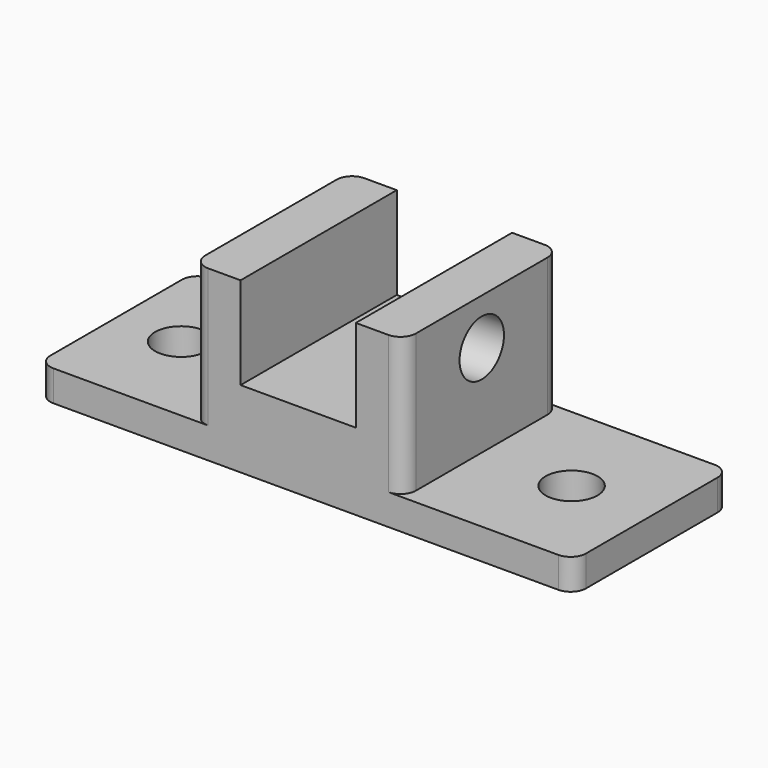
from build123d import *

# Parameters (mm, degrees)
PAD_DEPTH       = 18
SKETCH001_R     = 3.3782
PAD001_DEPTH    = 4
SKETCH002_W     = 15
SKETCH002_H     = 25.4
POCKET_DEPTH    = 12
SKETCH003_R     = 3.61315
POCKET001_DEPTH = 6.215


with BuildPart() as part:
    # Sketch → Pad (new body)
    with BuildSketch(Plane.XY):
        with BuildLine():
            Line((-13.715, 10.7), (-13.715, -10.7))
            ThreePointArc((-13.715, -10.7), (-13.129214, -12.114214), (-11.715, -12.7))
            Line((-11.715, -12.7), (11.715, -12.7))
            ThreePointArc((11.715, -12.7), (13.129214, -12.114214), (13.715, -10.7))
            Line((13.715, -10.7), (13.715, 10.7))
            ThreePointArc((13.715, 10.7), (13.129214, 12.114214), (11.715, 12.7))
            Line((11.715, 12.7), (-11.715, 12.7))
            ThreePointArc((-11.715, 12.7), (-13.129214, 12.114214), (-13.715, 10.7))
        make_face()
    extrude(amount=PAD_DEPTH)

    # Sketch001 → Pad001 (join)
    with BuildSketch(Plane.XY):
        with BuildLine():
            Line((-33.8375, 10.7), (-33.8375, -10.7))
            ThreePointArc((-33.8375, -10.7), (-33.251714, -12.114214), (-31.8375, -12.7))
            Line((-31.8375, -12.7), (33.8375, -12.7))
            ThreePointArc((33.8375, -12.7), (35.251714, -12.114214), (35.8375, -10.7))
            Line((35.8375, -10.7), (35.8375, 10.7))
            ThreePointArc((35.8375, 10.7), (35.251714, 12.114214), (33.8375, 12.7))
            Line((33.8375, 12.7), (-31.8375, 12.7))
            ThreePointArc((-31.8375, 12.7), (-33.251714, 12.114214), (-33.8375, 10.7))
        make_face()
        with Locations((-25.4, 0)):
            Circle(SKETCH001_R, mode=Mode.SUBTRACT)
        with Locations((25.4, 0)):
            Circle(SKETCH001_R, mode=Mode.SUBTRACT)
    extrude(amount=-PAD001_DEPTH)

    # Sketch002 (on DatumPlane) → Pocket (cut)
    with BuildSketch(Plane.XY.offset(18)):
        Rectangle(SKETCH002_W, SKETCH002_H)
    extrude(amount=-POCKET_DEPTH, mode=Mode.SUBTRACT)

    # Sketch003 (on DatumPlane) → Pocket001 (cut)
    with BuildSketch(Plane.YZ.offset(13.715)):
        with Locations((0, 12)):
            Circle(SKETCH003_R)
    extrude(amount=-POCKET001_DEPTH, mode=Mode.SUBTRACT)


solid = part.part
